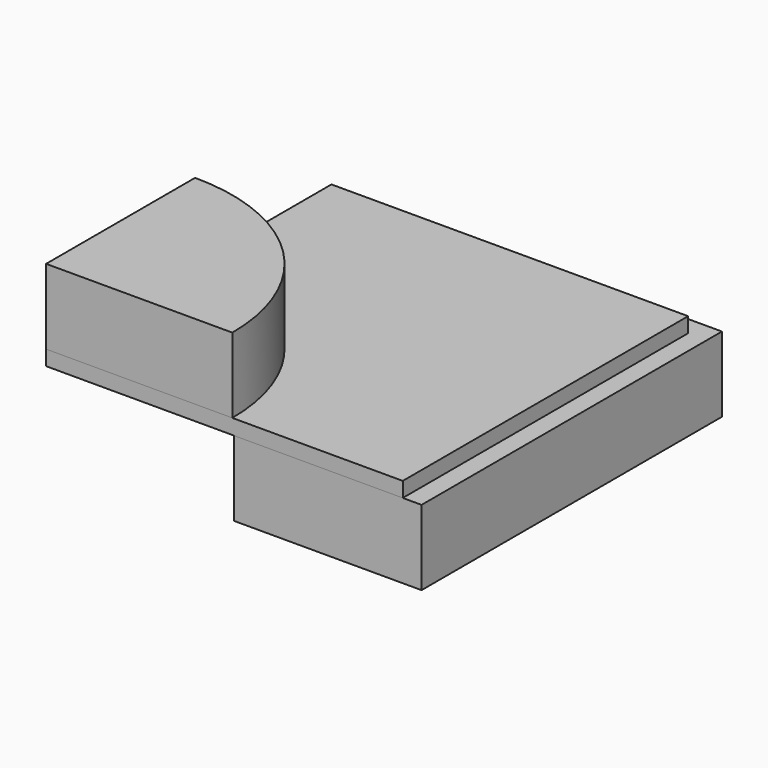
from build123d import *

# Parameters (mm, degrees)
F1_DEPTH = 2
F3_DEPTH = 0.4
F5_DEPTH = 2


with BuildPart() as f1:
    # F0 (on Top) → F1 (new body)
    with BuildSketch(Plane.XY):
        with BuildLine():
            ThreePointArc((0, 5), (3.5355339059, 3.5355339059), (5, 0))
            Line((5, 0), (10, 0))
            Line((10, 0), (10, 10))
            Line((10, 10), (0, 10))
            Line((0, 10), (0, 5))
        make_face()
    extrude(amount=-F1_DEPTH)


with BuildPart() as f3:
    # F2 (on face) → F3 (new body)
    with BuildSketch(Plane.XY):
        with BuildLine():
            Line((0, 5), (0, 0))
            Line((0, 0), (5, 0))
            ThreePointArc((5, 0), (3.5355339059, 3.5355339059), (0, 5))
        make_face()
        with BuildLine():
            ThreePointArc((0, 5), (3.5355339059, 3.5355339059), (5, 0))
            Line((5, 0), (9.5, 0))
            Line((9.5, 0), (9.5, 9.5))
            Line((9.5, 9.5), (0, 9.5))
            Line((0, 9.5), (0, 5))
        make_face()
    extrude(amount=F3_DEPTH)


with BuildPart() as f5:
    # F4 (on face) → F5 (new body)
    with BuildSketch(Plane.XY.offset(0.4)):
        with BuildLine():
            Line((0, 0), (4.96, 0))
            ThreePointArc((4.96, 0), (3.5072496347, 3.5072496347), (0, 4.96))
            Line((0, 4.96), (0, 0))
        make_face()
    extrude(amount=F5_DEPTH)


solid = Compound([f1.part, f3.part, f5.part])
